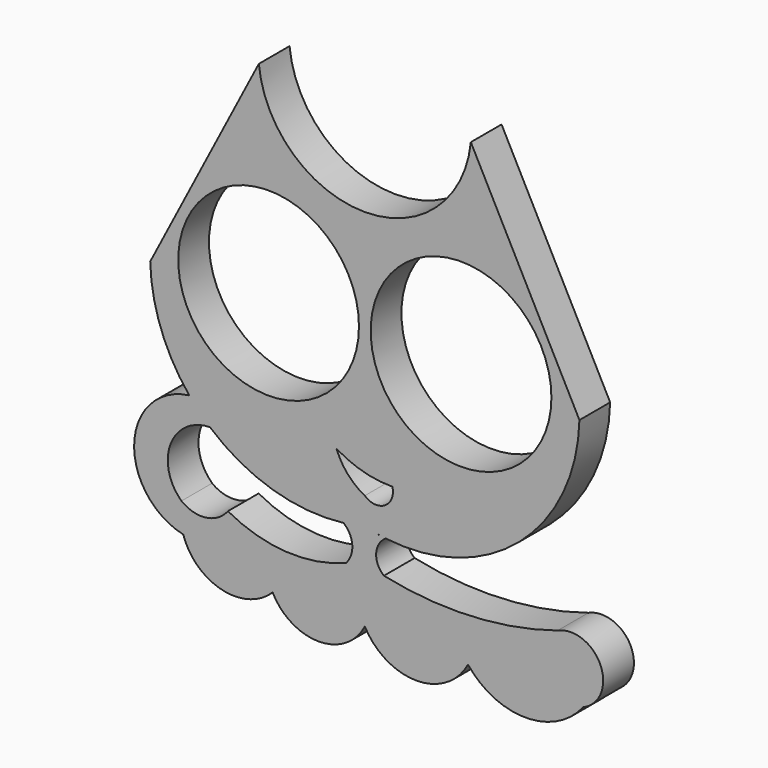
from build123d import *

# Parameters (mm, degrees)
F0_R     = 10.16
F1_DEPTH = 4.318


with BuildPart() as f1:
    # F0 (on Front) → F1 (new body)
    with BuildSketch(Plane.XZ):
        with BuildLine():
            ThreePointArc((11.919501, 36.971992), (0, 26.173391), (-11.919501, 36.971992))
            Line((-11.919501, 36.971992), (-24.13, 13.43176))
            ThreePointArc((-24.13, 13.43176), (-22.921681, 7.152786), (-19.740452, 1.606136))
            ThreePointArc((-19.740452, 1.606136), (-18.629229, 0.361914), (-17.415366, -0.782394))
            ThreePointArc((-17.415366, -0.782394), (-10.387675, -4.665797), (-2.389857, -5.375845))
            ThreePointArc((-2.389857, -5.375845), (-1.188038, -5.193125), (0, -4.935601))
            ThreePointArc((0, -4.935601), (1.172863, -5.190323), (2.359217, -5.372139))
            ThreePointArc((2.359217, -5.372139), (17.407148, -0.789496), (24.13, 13.43176))
            Line((24.13, 13.43176), (11.919501, 36.971992))
        make_face()
        with BuildLine():
            ThreePointArc((3.0914, 0), (2.263205, -2.117562), (0, -1.89875))
            ThreePointArc((0, -1.89875), (-1.928418, -0.38668), (-3.183084, 1.718305))
            ThreePointArc((-3.183084, 1.718305), (-0.166019, 0.420321), (3.0914, 0))
        make_face(mode=Mode.SUBTRACT)
        with Locations((-10.819813, 14.638665)):
            Circle(F0_R, mode=Mode.SUBTRACT)
        with Locations((10.819813, 14.638665)):
            Circle(F0_R, mode=Mode.SUBTRACT)
        with BuildLine():
            ThreePointArc((-17.415366, -0.782394), (-18.629229, 0.361914), (-19.740452, 1.606136))
            ThreePointArc((-19.740452, 1.606136), (-25.934885, -5.103029), (-20.419998, -12.381073))
            ThreePointArc((-20.419998, -12.381073), (-16.086784, -16.436298), (-10.36948, -14.844435))
            ThreePointArc((-10.36948, -14.844435), (-5.18474, -18.021521), (0, -14.844435))
            ThreePointArc((0, -14.844435), (5.801855, -18.31917), (11.603709, -14.844435))
            ThreePointArc((11.603709, -14.844435), (18.080267, -17.991875), (24.556825, -14.844435))
            ThreePointArc((24.556825, -14.844435), (26.50486, -10.055339), (21.679501, -8.198945))
            ThreePointArc((21.679501, -8.198945), (11.972567, -9.93681), (2.144399, -9.129436))
            ThreePointArc((2.144399, -9.129436), (1.274347, -7.195475), (2.358245, -5.37274))
            ThreePointArc((2.358245, -5.37274), (1.172369, -5.190605), (0, -4.935601))
            ThreePointArc((0, -4.935601), (-1.188038, -5.193125), (-2.389857, -5.375845))
            ThreePointArc((-2.389857, -5.375845), (-1.411752, -7.237897), (-2.092584, -9.22797))
            ThreePointArc((-2.092584, -9.22797), (-8.832266, -10.329025), (-15.394739, -8.439693))
            ThreePointArc((-15.394739, -8.439693), (-17.861055, -9.881265), (-20.617066, -9.129436))
            ThreePointArc((-20.617066, -9.129436), (-21.838266, -3.873452), (-17.415366, -0.782394))
        make_face()
    extrude(amount=F1_DEPTH)


solid = f1.part
